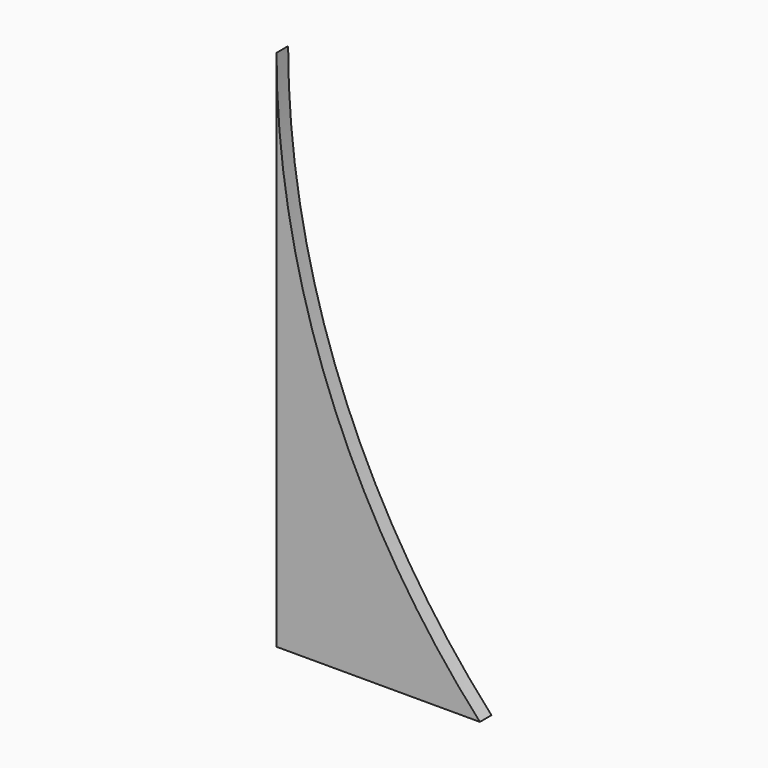
from build123d import *

# Parameters (mm, degrees)
F1_DEPTH = 25.4


with BuildPart() as f1:
    # F0 (on Front) → F1 (new body)
    with BuildSketch(Plane.XZ):
        with BuildLine():
            Line((0, 914.4), (0, 0))
            Line((0, 0), (355.6, 0))
            ThreePointArc((355.6, 0), (92.028763, 423.844519), (0, 914.4))
        make_face()
    extrude(amount=F1_DEPTH)


solid = f1.part
